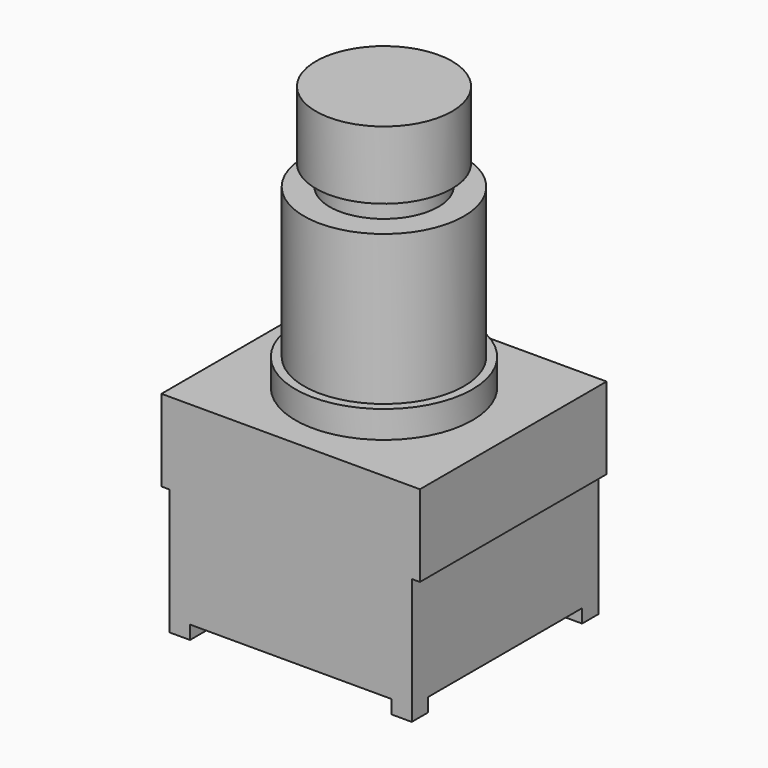
from build123d import *

# Parameters (mm, degrees)
F0_W      = 19
F0_H      = 17.15
F1_DEPTH  = 6
F2_W      = 17.8
F2_H      = 17.15
F3_DEPTH  = 8.25
F4_W      = 1.5
F4_H      = 1.5
F5_DEPTH  = 1
F6_R      = 6.5
F7_DEPTH  = 2
F8_R      = 5.875
F9_DEPTH  = 11
F10_R     = 4
F11_DEPTH = 1.5
F12_R     = 5
F13_DEPTH = 5


with BuildPart() as f1:
    # F0 (on Top) → F1 (new body)
    with BuildSketch(Plane.XY):
        Rectangle(F0_W, F0_H)
    extrude(amount=F1_DEPTH)

    # F2 (on face) → F3 (join)
    with BuildSketch(Plane(origin=(0, 0, 0), x_dir=(1, 0, 0), z_dir=(0, 0, -1))):
        Rectangle(F2_W, F2_H)
    extrude(amount=F3_DEPTH)

    # F4 (on face) → F5 (join)
    with BuildSketch(Plane(origin=(0, 0, -8.25), x_dir=(1, 0, 0), z_dir=(0, 0, -1))):
        with Locations((-8.15, 7.825)):
            Rectangle(F4_W, F4_H)
        with Locations((8.15, 7.825)):
            Rectangle(F4_W, F4_H)
        with Locations((-8.15, -7.825)):
            Rectangle(F4_W, F4_H)
        with Locations((8.15, -7.825)):
            Rectangle(F4_W, F4_H)
    extrude(amount=F5_DEPTH)


with BuildPart() as f7:
    # F6 (on face) → F7 (new body)
    with BuildSketch(Plane.XY.offset(6)):
        Circle(F6_R)
    extrude(amount=F7_DEPTH)

    # F8 (on face) → F9 (join)
    with BuildSketch(Plane.XY.offset(8)):
        Circle(F8_R)
    extrude(amount=F9_DEPTH)

    # F10 (on face) → F11 (join)
    with BuildSketch(Plane.XY.offset(19)):
        Circle(F10_R)
    extrude(amount=F11_DEPTH)

    # F12 (on face) → F13 (join)
    with BuildSketch(Plane.XY.offset(20.5)):
        Circle(F12_R)
    extrude(amount=F13_DEPTH)


solid = Compound([f1.part, f7.part])
